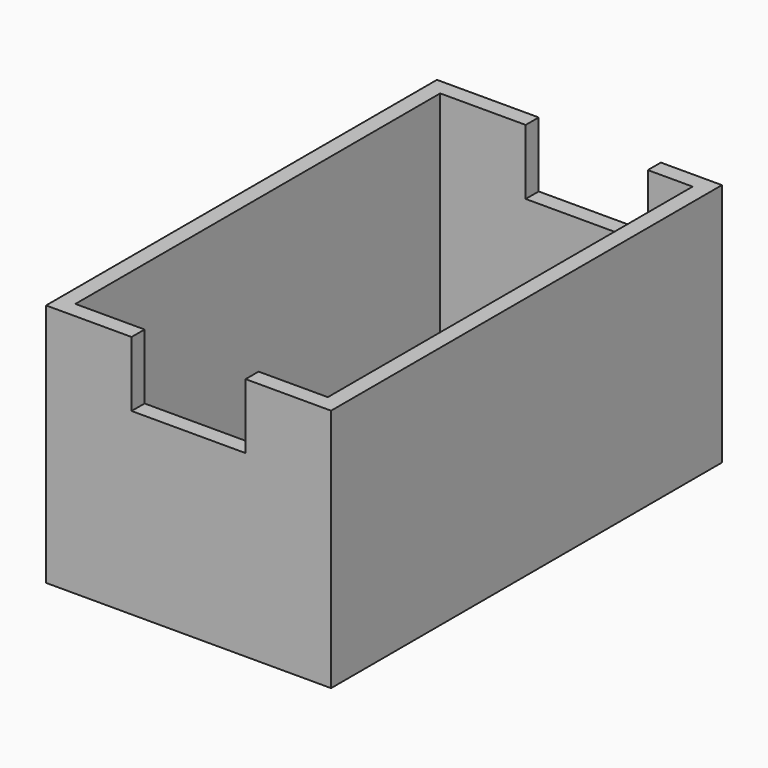
from build123d import *

# Parameters (mm, degrees)
F0_W     = 35
F0_H     = 60
F1_DEPTH = 30
F2_W     = 31
F2_H     = 56
F3_DEPTH = 28
F4_W     = 5
F4_H     = 8
F4_W_2   = 10
F5_DEPTH = 2
F6_W     = 7
F6_H     = 8
F7_DEPTH = 2


with BuildPart() as f1:
    # F0 (on Top) → F1 (new body)
    with BuildSketch(Plane.XY):
        Rectangle(F0_W, F0_H)
    extrude(amount=F1_DEPTH)

    # F2 (on face) → F3 (cut)
    with BuildSketch(Plane.XY.offset(30)):
        Rectangle(F2_W, F2_H)
    extrude(amount=-F3_DEPTH, mode=Mode.SUBTRACT)

    # F4 (on face) → F5 (cut)
    with BuildSketch(Plane(origin=(0, 30, 0), x_dir=(-1, 0, 0), z_dir=(0, 1, 0))):
        with Locations((2.5, 26)):
            Rectangle(F4_W, F4_H)
        with Locations((-5, 26)):
            Rectangle(F4_W_2, F4_H)
    extrude(amount=-F5_DEPTH, mode=Mode.SUBTRACT)

    # F6 (on face) → F7 (cut)
    with BuildSketch(Plane.XZ.offset(30)):
        with Locations((-3.5, 26)):
            Rectangle(F6_W, F6_H)
        with Locations((3.5, 26)):
            Rectangle(F6_W, F6_H)
    extrude(amount=-F7_DEPTH, mode=Mode.SUBTRACT)


solid = f1.part
